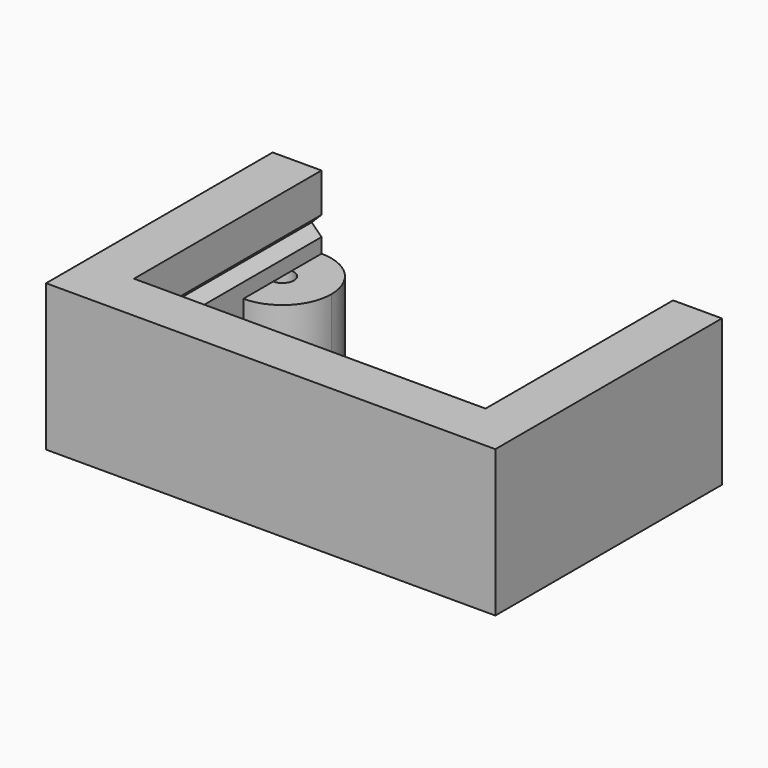
from build123d import *

# Parameters (mm, degrees)
F1_DEPTH      = 6.35
F1_DEPTH_BACK = 12.7
F3_DEPTH      = 30.48
F5_DEPTH      = 9.525
F6_R          = 1.5
F7_DEPTH      = 9.525


with BuildPart() as f1:
    # F0 (on Top) → F1 (new body, two sides)
    with BuildSketch(Plane.XY) as f1_sk:
        Polygon((-29.2099994576, 18.4149997288), (-29.2099994576, -18.4149997288), (29.2099994576, -18.4149997288), (29.2099994576, 18.4149997288), (22.86, 18.4149997288), (22.86, -12.0650002712), (-22.86, -12.0650002712), (-22.86, 18.4149997288), align=None)
    extrude(amount=F1_DEPTH)
    extrude(f1_sk.sketch, amount=-F1_DEPTH_BACK)

    # F2 (on face) → F3 (cut)
    with BuildSketch(Plane(origin=(0, 18.4149997288, 0), x_dir=(-1, 0, 0), z_dir=(0, 1, 0))):
        Polygon((0, 24.13), (-24.13, 0), (0, -24.13), (22.86, -1.27), (22.86, 1.27), align=None)
        Polygon((24.13, 0), (22.86, 1.27), (22.86, -1.27), align=None)
    extrude(amount=-F3_DEPTH, mode=Mode.SUBTRACT)

    # F4 (on face) → F5 (join)
    with BuildSketch(Plane(origin=(0, 0, -12.7), x_dir=(1, 0, 0), z_dir=(0, 0, -1))):
        with BuildLine():
            Line((-22.86, -5.7149997288), (-22.86, -18.4149997288))
            ThreePointArc((-22.86, -18.4149997288), (-18.3698719395, -16.5551277893), (-16.51, -12.0649997288))
            ThreePointArc((-16.51, -12.0649997288), (-18.3698719395, -7.5748716683), (-22.86, -5.7149997288))
        make_face()
        with BuildLine():
            Line((22.86, 12.0650002712), (16.51, 12.0650002712))
            ThreePointArc((16.51, 12.0650002712), (18.3698719395, 7.5748722107), (22.86, 5.7150002712))
            Line((22.86, 5.7150002712), (22.86, 12.0650002712))
        make_face()
    extrude(amount=-F5_DEPTH)

    # F6 (on face) → F7 (cut)
    with BuildSketch(Plane(origin=(0, 0, -12.7), x_dir=(1, 0, 0), z_dir=(0, 0, -1))):
        with Locations((22.86, 12.0650002712)):
            Circle(F6_R)
        with Locations((-22.86, -12.0649997288)):
            Circle(F6_R)
    extrude(amount=-F7_DEPTH, mode=Mode.SUBTRACT)


solid = f1.part
